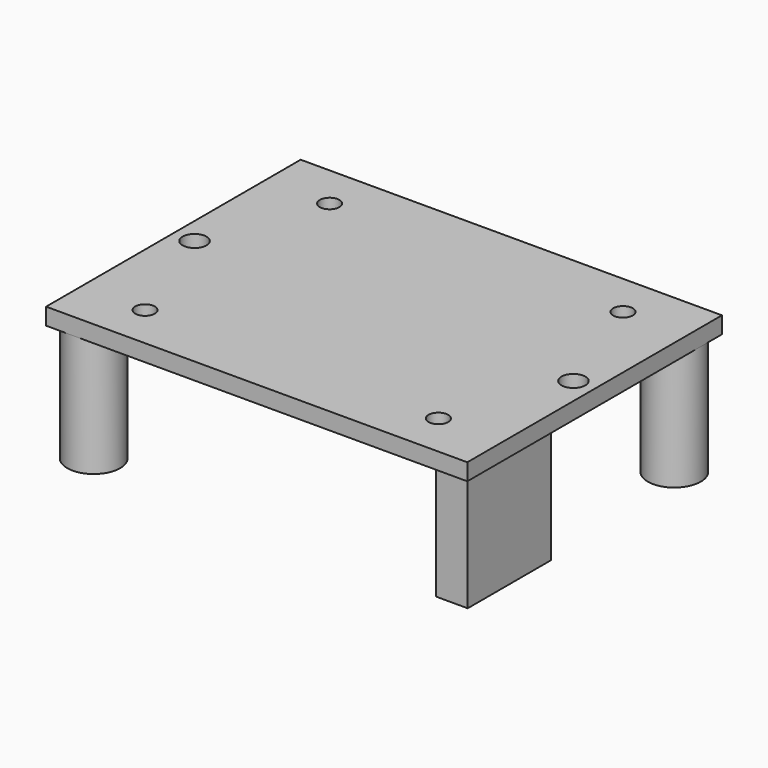
from build123d import *

# Parameters (mm, degrees)
F0_W     = 32.64
F0_H     = 24.66
F0_R     = 0.76
F0_R_2   = 0.925
F1_DEPTH = 1.3
F3_R     = 2.05
F3_W     = 2.47
F3_H     = 8.08
F4_DEPTH = 9.22


with BuildPart() as f1:
    # F0 (on Top) → F1 (new body)
    with BuildSketch(Plane.XY):
        Rectangle(F0_W, F0_H)
        with Locations((-11.365, -8.94)):
            Circle(F0_R, mode=Mode.SUBTRACT)
        with Locations((-14.680513, 0)):
            Circle(F0_R_2, mode=Mode.SUBTRACT)
        with Locations((11.365, -8.94)):
            Circle(F0_R, mode=Mode.SUBTRACT)
        with Locations((14.680513, 0)):
            Circle(F0_R_2, mode=Mode.SUBTRACT)
        with Locations((-11.365, 8.94)):
            Circle(F0_R, mode=Mode.SUBTRACT)
        with Locations((11.365, 8.94)):
            Circle(F0_R, mode=Mode.SUBTRACT)
    extrude(amount=F1_DEPTH)

    # F3 (on offset) → F4 (join)
    with BuildSketch(Plane(origin=(0, 0, 0), x_dir=(1, 0, 0), z_dir=(0, 0, -1))):
        with Locations((-14.27, 10.28)):
            Circle(F3_R)
        with Locations((-14.27, -10.28)):
            Circle(F3_R)
        with Locations((14.27, -10.28)):
            Circle(F3_R)
        with Locations((14.435, 7.44)):
            Rectangle(F3_W, F3_H)
    extrude(amount=F4_DEPTH)


solid = f1.part
